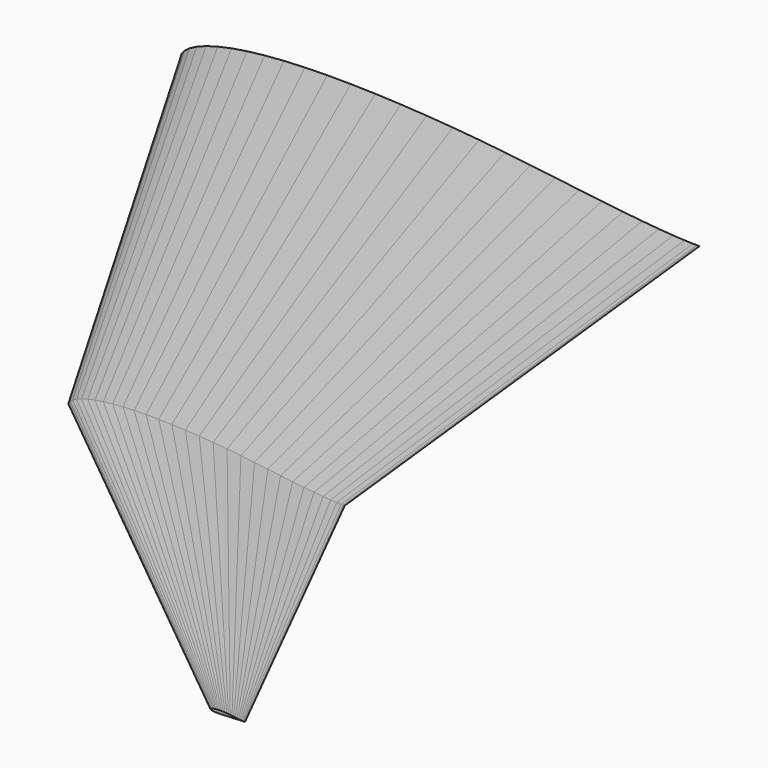
from build123d import *


with BuildPart() as f5:
    # F0 (on Front) → F5 section 0
    with BuildSketch(Plane.XZ):
        Polygon((-375, -10.04625), (370.97, -10.04625), (365.3175, -9.99375), (353.325, -9.59625), (336.87, -8.71125), (316.26, -7.24125), (291.8625, -5.08875), (264.18, -2.25375), (233.6925, 1.18125), (200.8875, 5.08875), (166.245, 9.30375), (130.2375, 13.61625), (93.27, 17.79375), (55.695, 21.63375), (17.8275, 24.99375), (-20.0175, 27.78375), (-57.495, 29.96625), (-94.23, 31.51125), (-129.8625, 32.36625), (-164.025, 32.50875), (-196.395, 31.88625), (-226.7025, 30.46875), (-254.6775, 28.27125), (-280.1175, 25.33125), (-302.805, 21.70125), (-322.575, 17.44875), (-339.2925, 12.66375), (-352.8975, 7.46625), (-363.3375, 2.05875), (-370.5825, -3.28125), (-374.5575, -8.11875), align=None)
    # F2 (on offset) → F5 section 1
    with BuildSketch(Plane.XZ.offset(736.6)):
        Polygon((50.549001, -16.788001), (448.399668, -16.788001), (445.385001, -16.760001), (438.989001, -16.548001), (430.213001, -16.076001), (419.221001, -15.292001), (406.209001, -14.144001), (391.445001, -12.632001), (375.185001, -10.800001), (357.689001, -8.716001), (339.213001, -6.468001), (320.009001, -4.168001), (300.293001, -1.940001), (280.253001, 0.107999), (260.057001, 1.899999), (239.873001, 3.387999), (219.885001, 4.551999), (200.293001, 5.375999), (181.289001, 5.831999), (163.069001, 5.907999), (145.805001, 5.575999), (129.641001, 4.819999), (114.721001, 3.647999), (101.153001, 2.079999), (89.053001, 0.143999), (78.509001, -2.124001), (69.593001, -4.676001), (62.337001, -7.448001), (56.769001, -10.332001), (52.905001, -13.180001), (50.785001, -15.760001), align=None)
    loft()

    # F0 (on Front) → F6 section 0
    with BuildSketch(Plane.XZ):
        Polygon((372.6525, -10.20375), (375, -10.04625), (372.585, -10.06125), (370.97, -10.04625), (-375, -10.04625), (-374.415, -11.99625), (-369.825, -15.47625), (-361.275, -19.04625), (-349.0275, -22.44375), (-333.255, -25.52625), (-314.1, -28.15125), (-291.7125, -30.19125), (-266.22, -31.59375), (-237.8025, -32.35125), (-206.6625, -32.50875), (-173.085, -32.14125), (-137.415, -31.31625), (-100.0125, -30.12375), (-61.2825, -28.63125), (-21.66, -26.95875), (18.39, -25.17375), (58.3875, -23.35875), (97.83, -21.58875), (136.245, -19.87875), (173.1525, -18.28125), (208.1025, -16.81125), (240.6675, -15.48375), (270.4425, -14.32125), (297.0525, -13.32375), (320.16, -12.48375), (339.4725, -11.77125), (354.75, -11.17125), (365.8275, -10.62375), align=None)
    # F2 (on offset) → F6 section 1
    with BuildSketch(Plane.XZ.offset(736.6)):
        Polygon((449.297001, -16.872001), (450.549001, -16.788001), (449.261001, -16.796001), (448.399668, -16.788001), (50.549001, -16.788001), (50.861001, -17.828001), (53.309001, -19.684001), (57.869001, -21.588001), (64.401001, -23.400001), (72.813001, -25.044001), (83.029001, -26.444001), (94.969001, -27.532001), (108.565001, -28.280001), (123.721001, -28.684001), (140.329001, -28.768001), (158.237001, -28.572001), (177.261001, -28.132001), (197.209001, -27.496001), (217.865001, -26.700001), (238.997001, -25.808001), (260.357001, -24.856001), (281.689001, -23.888001), (302.725001, -22.944001), (323.213001, -22.032001), (342.897001, -21.180001), (361.537001, -20.396001), (378.905001, -19.688001), (394.785001, -19.068001), (408.977001, -18.536001), (421.301001, -18.088001), (431.601001, -17.708001), (439.749001, -17.388001), (445.657001, -17.096001), align=None)
    loft()

    # F2 (on offset) → F7 section 0
    with BuildSketch(Plane.XZ.offset(736.6)):
        Polygon((50.549001, -16.788001), (448.399668, -16.788001), (445.385001, -16.760001), (438.989001, -16.548001), (430.213001, -16.076001), (419.221001, -15.292001), (406.209001, -14.144001), (391.445001, -12.632001), (375.185001, -10.800001), (357.689001, -8.716001), (339.213001, -6.468001), (320.009001, -4.168001), (300.293001, -1.940001), (280.253001, 0.107999), (260.057001, 1.899999), (239.873001, 3.387999), (219.885001, 4.551999), (200.293001, 5.375999), (181.289001, 5.831999), (163.069001, 5.907999), (145.805001, 5.575999), (129.641001, 4.819999), (114.721001, 3.647999), (101.153001, 2.079999), (89.053001, 0.143999), (78.509001, -2.124001), (69.593001, -4.676001), (62.337001, -7.448001), (56.769001, -10.332001), (52.905001, -13.180001), (50.785001, -15.760001), align=None)
    # F4 (on offset) → F7 section 1
    with BuildSketch(Plane.XZ.offset(1244.6)):
        Polygon((662.574392, -0.66975), (712.305725, -0.66975), (711.928892, -0.66625), (711.129392, -0.63975), (710.032392, -0.58075), (708.658392, -0.48275), (707.031892, -0.33925), (705.186392, -0.15025), (703.153892, 0.07875), (700.966892, 0.33925), (698.657392, 0.62025), (696.256892, 0.90775), (693.792392, 1.18625), (691.287392, 1.44225), (688.762892, 1.66625), (686.239892, 1.85225), (683.741392, 1.99775), (681.292392, 2.10075), (678.916892, 2.15775), (676.639392, 2.16725), (674.481392, 2.12575), (672.460892, 2.03125), (670.595892, 1.88475), (668.899892, 1.68875), (667.387392, 1.44675), (666.069392, 1.16325), (664.954892, 0.84425), (664.047892, 0.49775), (663.351892, 0.13725), (662.868892, -0.21875), (662.603892, -0.54125), align=None)
    loft()

    # F4 (on offset) → F8 section 0
    with BuildSketch(Plane.XZ.offset(1244.6)):
        Polygon((712.417892, -0.68025), (712.574392, -0.66975), (712.413392, -0.67075), (712.305725, -0.66975), (662.574392, -0.66975), (662.613392, -0.79975), (662.919392, -1.03175), (663.489392, -1.26975), (664.305892, -1.49625), (665.357392, -1.70175), (666.634392, -1.87675), (668.126892, -2.01275), (669.826392, -2.10625), (671.720892, -2.15675), (673.796892, -2.16725), (676.035392, -2.14275), (678.413392, -2.08775), (680.906892, -2.00825), (683.488892, -1.90875), (686.130392, -1.79725), (688.800392, -1.67825), (691.466892, -1.55725), (694.096392, -1.43925), (696.657392, -1.32525), (699.117892, -1.21875), (701.447892, -1.12075), (703.618892, -1.03225), (705.603892, -0.95475), (707.377892, -0.88825), (708.918392, -0.83225), (710.205892, -0.78475), (711.224392, -0.74475), (711.962892, -0.70825), align=None)
    # F2 (on offset) → F8 section 1
    with BuildSketch(Plane.XZ.offset(736.6)):
        Polygon((449.297001, -16.872001), (450.549001, -16.788001), (449.261001, -16.796001), (448.399668, -16.788001), (50.549001, -16.788001), (50.861001, -17.828001), (53.309001, -19.684001), (57.869001, -21.588001), (64.401001, -23.400001), (72.813001, -25.044001), (83.029001, -26.444001), (94.969001, -27.532001), (108.565001, -28.280001), (123.721001, -28.684001), (140.329001, -28.768001), (158.237001, -28.572001), (177.261001, -28.132001), (197.209001, -27.496001), (217.865001, -26.700001), (238.997001, -25.808001), (260.357001, -24.856001), (281.689001, -23.888001), (302.725001, -22.944001), (323.213001, -22.032001), (342.897001, -21.180001), (361.537001, -20.396001), (378.905001, -19.688001), (394.785001, -19.068001), (408.977001, -18.536001), (421.301001, -18.088001), (431.601001, -17.708001), (439.749001, -17.388001), (445.657001, -17.096001), align=None)
    loft()


solid = f5.part
